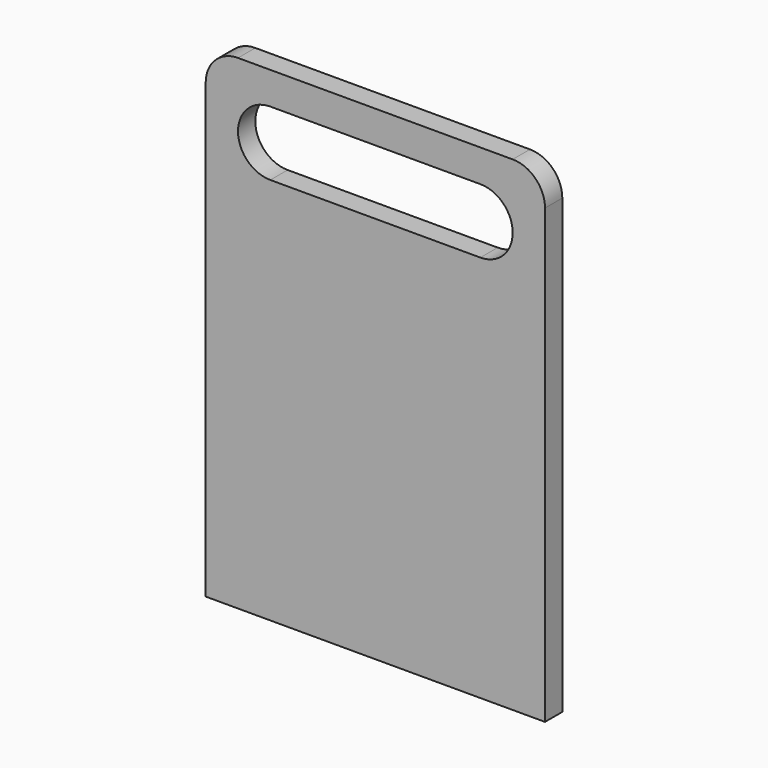
from build123d import *

# Parameters (mm, degrees)
F2_DEPTH = 6.7


with BuildPart() as f2:
    # F1 (on Front) → F2 (new body)
    with BuildSketch(Plane.XZ):
        with BuildLine():
            ThreePointArc((52.5, 65), (49.5710678119, 72.0710678119), (42.5, 75))
            Line((42.5, 75), (-42.5, 75))
            ThreePointArc((-42.5, 75), (-49.5710678119, 72.0710678119), (-52.5, 65))
            Line((-52.5, 65), (-52.5, -75))
            Line((-52.5, -75), (52.5, -75))
            Line((52.5, -75), (52.5, 65))
        make_face()
        with BuildLine():
            Line((32.5, 45), (-32.5, 45))
            ThreePointArc((-32.5, 45), (-42.5, 55), (-32.5, 65))
            Line((-32.5, 65), (32.5, 65))
            ThreePointArc((32.5, 65), (42.5, 55), (32.5, 45))
        make_face(mode=Mode.SUBTRACT)
    extrude(amount=F2_DEPTH)


solid = f2.part
